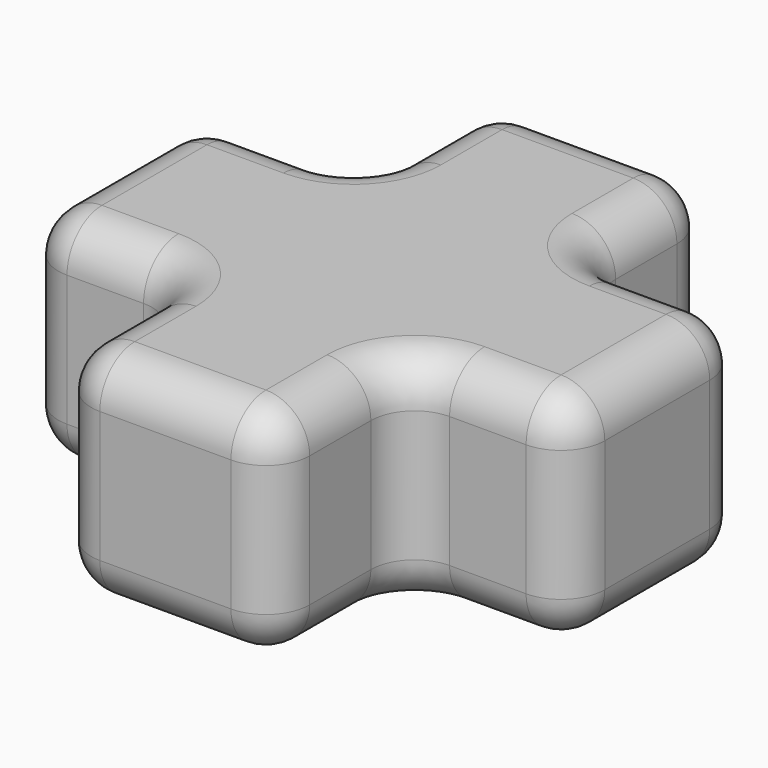
from build123d import *

# Parameters (mm, degrees)
F1_DEPTH = 25.4
F2_R     = 5.08


with BuildPart() as f1:
    # F0 (on Top) → F1 (new body)
    with BuildSketch(Plane.XY):
        Polygon((0, 25.4), (0, 0), (19.05, 0), (19.05, -19.05), (44.45, -19.05), (44.45, 0), (63.5, 0), (63.5, 25.4), (44.45, 25.4), (44.45, 44.45), (19.05, 44.45), (19.05, 25.4), align=None)
    extrude(amount=F1_DEPTH)

    # F2
    f2_edges = [f1.edges().sort_by_distance(p)[0] for p in [
        (0, 12.7, 25.4),
        (9.525, 0, 25.4),
        (19.05, -9.525, 25.4),
        (31.75, -19.05, 25.4),
        (44.45, -9.525, 25.4),
        (53.975, 0, 25.4),
        (63.5, 12.7, 25.4),
        (53.975, 25.4, 25.4),
        (44.45, 34.925, 25.4),
        (31.75, 44.45, 25.4),
        (19.05, 34.925, 25.4),
        (9.525, 25.4, 25.4),
        (0, 12.7, 0),
        (9.525, 0, 0),
        (19.05, -9.525, 0),
        (31.75, -19.05, 0),
        (44.45, -9.525, 0),
        (53.975, 0, 0),
        (63.5, 12.7, 0),
        (53.975, 25.4, 0),
        (44.45, 34.925, 0),
        (31.75, 44.45, 0),
        (19.05, 34.925, 0),
        (9.525, 25.4, 0),
        (44.45, 44.45, 12.7),
        (19.05, 44.45, 12.7),
        (19.05, 25.4, 12.7),
        (0, 25.4, 12.7),
        (63.5, 25.4, 12.7),
        (44.45, 25.4, 12.7),
        (63.5, 0, 12.7),
        (44.45, -19.05, 12.7),
        (44.45, 0, 12.7),
        (19.05, 0, 12.7),
        (19.05, -19.05, 12.7),
        (0, 0, 12.7),
    ]]
    fillet(f2_edges, radius=F2_R)


solid = f1.part
